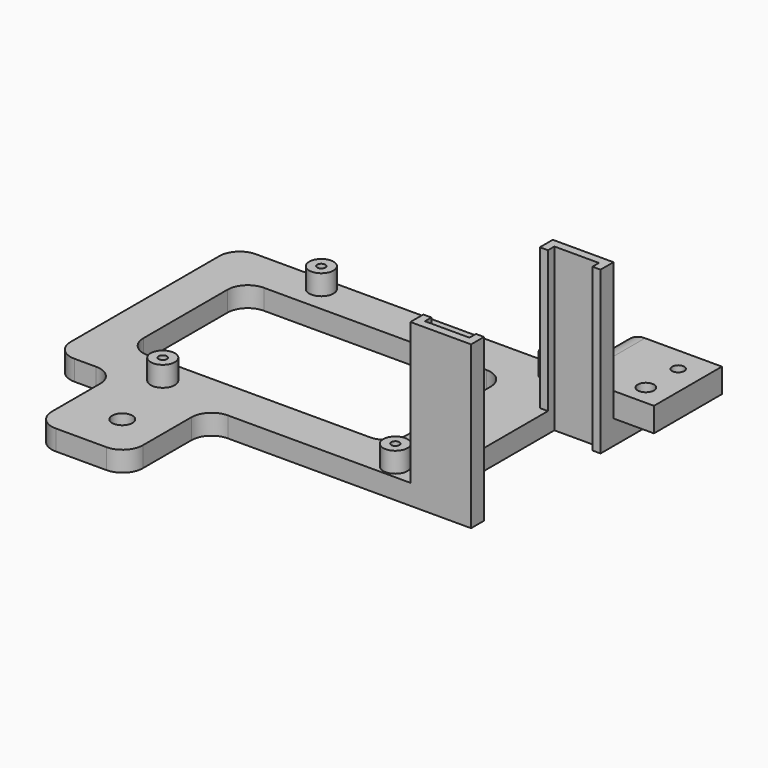
from build123d import *

# Parameters (mm, degrees)
SKETCH_W        = 85
SKETCH_H        = 56
PAD_DEPTH       = 5
SKETCH001_W     = 65
SKETCH001_H     = 36
POCKET_DEPTH    = 5.001
SKETCH002_R     = 3
PAD001_DEPTH    = 5
SKETCH003_R     = 1
POCKET001_DEPTH = 10.001
SKETCH004_W     = 44
SKETCH004_H     = 5
PAD002_DEPTH    = 5
PAD003_DEPTH    = 40
PAD004_DEPTH    = 21
FILLET_R        = 6
FILLET001_R     = 3
SKETCH007_W     = 22.516809
SKETCH007_H     = 5
PAD005_DEPTH    = 25
FILLET002_R     = 5
FILLET003_R     = 5
SKETCH008_R     = 2.5
POCKET002_DEPTH = 5.001
SKETCH009_R     = 1.5
SKETCH009_R_2   = 2
POCKET003_DEPTH = 12.001


with BuildPart() as part:
    # Sketch → Pad (new body)
    with BuildSketch(Plane.XY):
        Rectangle(SKETCH_W, SKETCH_H)
    extrude(amount=PAD_DEPTH)

    # Sketch001 → Pocket (cut, through all)
    with BuildSketch(Plane.XY.offset(5)):
        Rectangle(SKETCH001_W, SKETCH001_H)
    extrude(amount=-POCKET_DEPTH, mode=Mode.SUBTRACT)

    # Sketch002 → Pad001 (new body)
    with BuildSketch(Plane.XY.offset(5)):
        with Locations((39, 24.5)):
            Circle(SKETCH002_R)
        with Locations((-18.5, 24.5)):
            Circle(SKETCH002_R)
        with Locations((-18.5, -24.5)):
            Circle(SKETCH002_R)
        with Locations((39, -24.5)):
            Circle(SKETCH002_R)
    extrude(amount=PAD001_DEPTH)

    # Sketch003 → Pocket001 (cut, through all)
    with BuildSketch(Plane.XY.offset(10)):
        with Locations((-18.5, 24.5)):
            Circle(SKETCH003_R)
        with Locations((-18.5, -24.5)):
            Circle(SKETCH003_R)
        with Locations((39, 24.5)):
            Circle(SKETCH003_R)
        with Locations((39, -24.5)):
            Circle(SKETCH003_R)
    extrude(amount=-POCKET001_DEPTH, mode=Mode.SUBTRACT)

    # Sketch004 → Pad002 (new body)
    with BuildSketch(Plane.YZ.offset(42.5)):
        with Locations((-6, 2.5)):
            Rectangle(SKETCH004_W, SKETCH004_H)
    extrude(amount=PAD002_DEPTH)

    # Sketch005 → Pad003 (new body)
    with BuildSketch(Plane(origin=(0, 0, 0), x_dir=(1, 0, 0), z_dir=(0, 0, -1))):
        Polygon((45.5, 28), (45.5, 24), (47.5, 24), (47.5, 26), (58.5, 26), (58.5, 24), (60.5, 24), (60.5, 28), align=None)
        Polygon((45.5, -16), (45.5, -12), (47.5, -12), (47.5, -14), (58.5, -14), (58.5, -12), (60.5, -12), (60.5, -16), align=None)
    extrude(amount=-PAD003_DEPTH)

    # Sketch006 → Pad004 (new body)
    with BuildSketch(Plane(origin=(0, 16, 0), x_dir=(-1, 0, 0), z_dir=(0, 1, 0))):
        Polygon((-42.5, 0), (-42.5, 5), (-45.5, 5), (-45.5, 12), (-70.5, 12), (-70.5, 6), (-60.5, 6), (-60.5, 0), align=None)
    extrude(amount=PAD004_DEPTH)

    # Fillet
    fillet_edges = [part.edges().sort_by_distance(p)[0] for p in [
        (45.5, 26.5, 12),
    ]]
    fillet(fillet_edges, radius=FILLET_R)

    # Fillet001
    fillet001_edges = [part.edges().sort_by_distance(p)[0] for p in [
        (42.5, 37, 2.5),
    ]]
    fillet(fillet001_edges, radius=FILLET001_R)

    # Sketch007 → Pad005 (new body)
    with BuildSketch(Plane.XZ.offset(28)):
        with Locations((-15.882882, 2.5)):
            Rectangle(SKETCH007_W, SKETCH007_H)
    extrude(amount=PAD005_DEPTH)

    # Fillet002
    fillet002_edges = [part.edges().sort_by_distance(p)[0] for p in [
        (32.5, 18, 2.5),
        (32.5, -18, 2.5),
        (-32.5, -18, 2.5),
        (-42.5, 28, 2.5),
        (-42.5, -28, 2.5),
        (-27.141287, -28, 2.5),
        (-27.141287, -53, 2.5),
        (-4.624478, -53, 2.5),
        (-4.624478, -28, 2.5),
        (-32.5, 18, 2.5),
    ]]
    fillet(fillet002_edges, radius=FILLET002_R)

    # Fillet003
    fillet003_edges = [part.edges().sort_by_distance(p)[0] for p in [
        (42.5, 28, 2.5),
    ]]
    fillet(fillet003_edges, radius=FILLET003_R)

    # Sketch008 → Pocket002 (cut, through all)
    with BuildSketch(Plane.XY.offset(5)):
        with Locations((-14.5, -42)):
            Circle(SKETCH008_R)
    extrude(amount=-POCKET002_DEPTH, mode=Mode.SUBTRACT)

    # Sketch009 → Pocket003 (cut, through all)
    with BuildSketch(Plane.XY.offset(12)):
        with Locations((64.5, 31)):
            Circle(SKETCH009_R)
        with Locations((64.5, 21)):
            Circle(SKETCH009_R_2)
    extrude(amount=-POCKET003_DEPTH, mode=Mode.SUBTRACT)


solid = part.part
